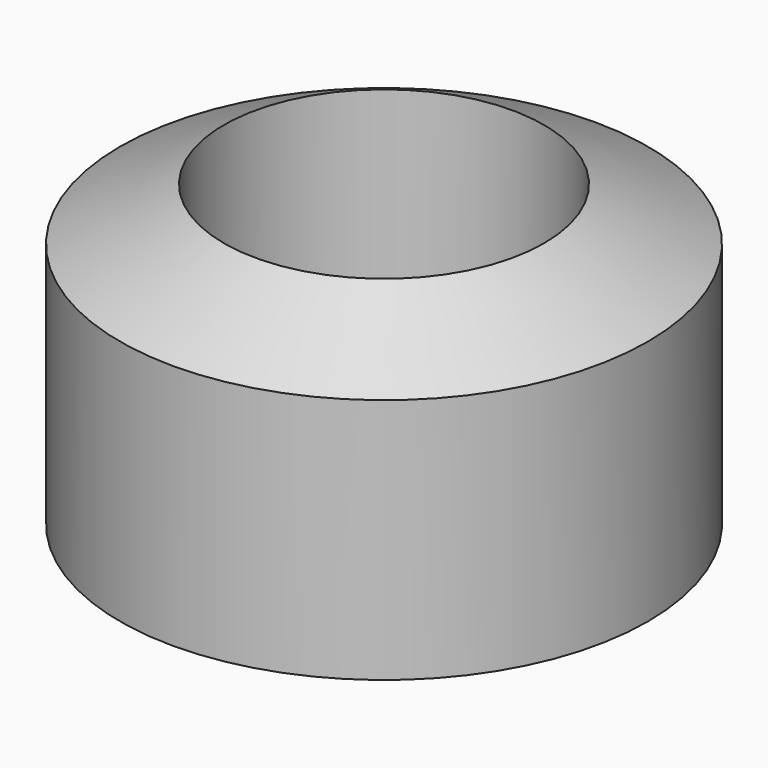
from build123d import *

# Parameters (mm, degrees)
F0_R     = 7.5
F0_R_2   = 4.55
F1_DEPTH = 10


with BuildPart() as f1:
    # F0 (on Top) → F1 (new body)
    with BuildSketch(Plane.XY):
        Circle(F0_R)
        Circle(F0_R_2, mode=Mode.SUBTRACT)
        Circle(F0_R)
        Circle(F0_R_2, mode=Mode.SUBTRACT)
    extrude(amount=F1_DEPTH)

    # F2 (on Front) → F4 (revolve, cut)
    with BuildSketch(Plane.XZ):
        Polygon((7.5, 1.5), (4.55, 0), (7.5, 0), align=None)
    revolve(axis=Axis((0, 0, 29.497309), (0, 0, 1)), mode=Mode.SUBTRACT)

    # F5 (on Front) → F6 (revolve, cut)
    with BuildSketch(Plane.XZ):
        Polygon((7.5, 10), (4.55, 10), (7.5, 8.5), align=None)
    revolve(axis=Axis((0, 0, 0), (0, 0, -1)), mode=Mode.SUBTRACT)


solid = f1.part
